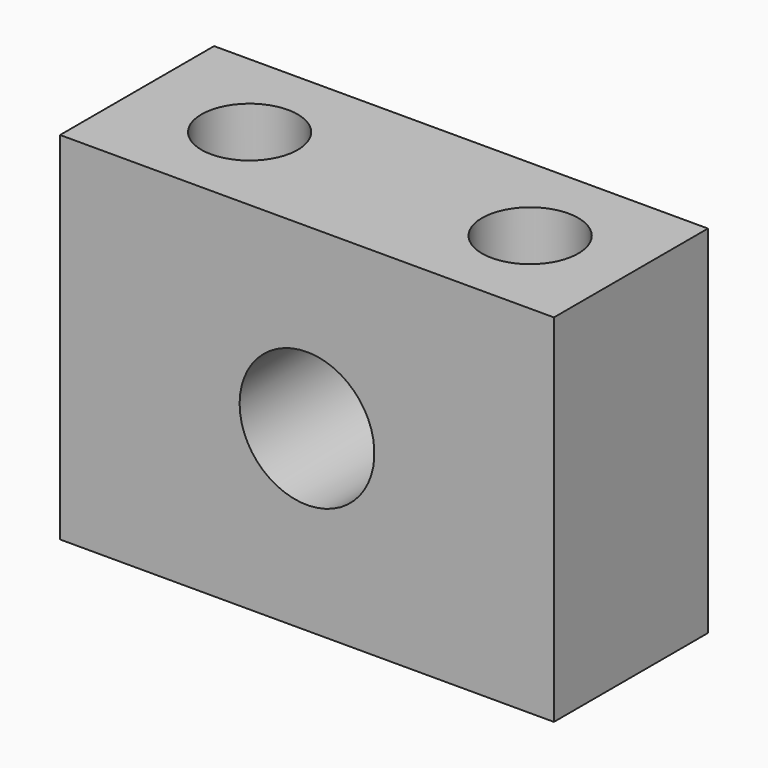
from build123d import *

# Parameters (mm, degrees)
F0_W     = 65.160498
F0_H     = 46.986484
F1_DEPTH = 25.4
F3_D     = 17.78
F5_D     = 12.7
F7_D     = 12.7


with BuildPart() as f1:
    # F0 (on Front) → F1 (new body)
    with BuildSketch(Plane.XZ):
        Rectangle(F0_W, F0_H)
    extrude(amount=F1_DEPTH)

    # F3 (through all)
    with Locations(Plane.XZ.offset(25.4)):
        with Locations((0, 0)):
            Hole(F3_D / 2)

    # F5 (through all)
    with Locations(Plane.XY.offset(23.493242)):
        with Locations((-17.730748, -12.7)):
            Hole(F5_D / 2)

    # F7 (through all)
    with Locations(Plane.XY.offset(23.493242)):
        with Locations((19.28219, -12.7)):
            Hole(F7_D / 2)


solid = f1.part
